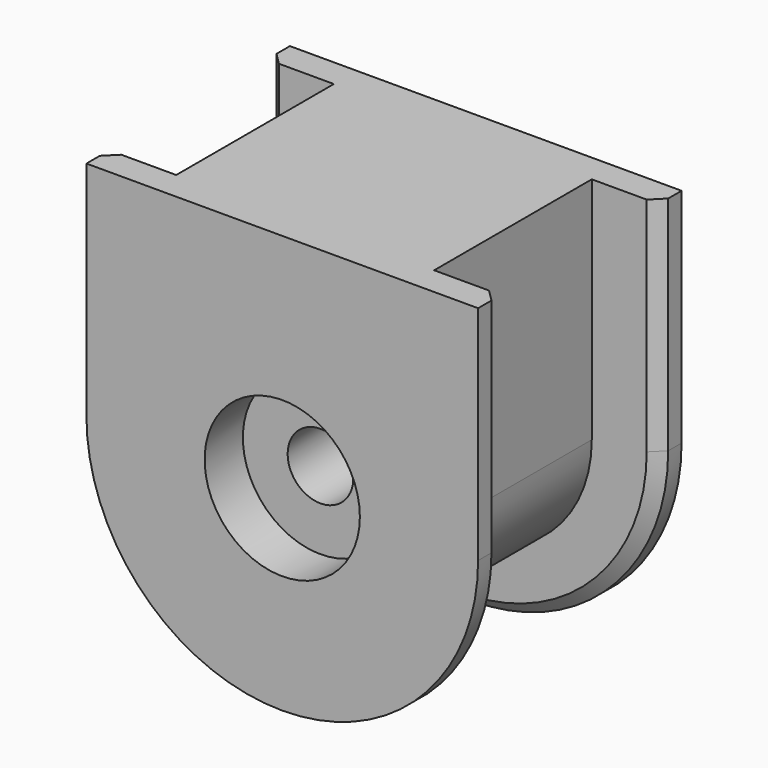
from build123d import *

# Parameters (mm, degrees)
F1_DEPTH  = 16.5
F3_DEPTH  = 2.4
F5_DEPTH  = 2.4
F6_R      = 2.75
F7_DEPTH  = 21.301
F8_SIZE   = 1
F9_R      = 6.5
F10_DEPTH = 4
F11_R     = 6.5
F12_DEPTH = 4


with BuildPart() as f1:
    # F0 (on Front) → F1 (new body)
    with BuildSketch(Plane.XZ):
        with BuildLine():
            Line((10.8, 4.99389), (-10.8, 4.99389))
            Line((-10.8, 4.99389), (-10.8, -14.20611))
            ThreePointArc((-10.8, -14.20611), (0, -25.00611), (10.8, -14.20611))
            Line((10.8, -14.20611), (10.8, 4.99389))
        make_face()
    extrude(amount=F1_DEPTH)

    # F2 (on face) → F3 (join)
    with BuildSketch(Plane.XZ.offset(16.5)):
        with BuildLine():
            Line((10.8, 4.99389), (10.8, -14.20611))
            ThreePointArc((10.8, -14.20611), (0, -25.00611), (-10.8, -14.20611))
            Line((-10.8, -14.20611), (-10.8, 4.99389))
            Line((-10.8, 4.99389), (-16.4, 4.99389))
            Line((-16.4, 4.99389), (-16.4, -13.60611))
            ThreePointArc((-16.4, -13.60611), (0, -30.00611), (16.4, -13.60611))
            Line((16.4, -13.60611), (16.4, 4.99389))
            Line((16.4, 4.99389), (10.8, 4.99389))
        make_face()
        with BuildLine():
            ThreePointArc((-10.8, -14.20611), (0, -25.00611), (10.8, -14.20611))
            Line((10.8, -14.20611), (10.8, 4.99389))
            Line((10.8, 4.99389), (-10.8, 4.99389))
            Line((-10.8, 4.99389), (-10.8, -14.20611))
        make_face()
    extrude(amount=F3_DEPTH)

    # F4 (on face) → F5 (join)
    with BuildSketch(Plane(origin=(0, 0, 0), x_dir=(-1, 0, 0), z_dir=(0, 1, 0))):
        with BuildLine():
            Line((16.4, 4.99389), (-16.4, 4.99389))
            Line((-16.4, 4.99389), (-16.4, -13.60611))
            ThreePointArc((-16.4, -13.60611), (0, -30.00611), (16.4, -13.60611))
            Line((16.4, -13.60611), (16.4, 4.99389))
        make_face()
    extrude(amount=F5_DEPTH)

    # F6 (on face) → F7 (cut, through all)
    with BuildSketch(Plane(origin=(0, 2.4, 0), x_dir=(-1, 0, 0), z_dir=(0, 1, 0))):
        with Locations((0, -13.60611)):
            Circle(F6_R)
    extrude(amount=-F7_DEPTH, mode=Mode.SUBTRACT)

    # F8
    f8_edges = [f1.edges().sort_by_distance(p)[0] for p in [
        (0, -16.5, -30.00611),
        (0, 0, -30.00611),
    ]]
    chamfer(f8_edges, length=F8_SIZE)

    # F9 (on face) → F10 (cut)
    with BuildSketch(Plane(origin=(0, 2.4, 0), x_dir=(-1, 0, 0), z_dir=(0, 1, 0))):
        with Locations((0, -13.60611)):
            Circle(F9_R)
    extrude(amount=-F10_DEPTH, mode=Mode.SUBTRACT)

    # F11 (on face) → F12 (cut)
    with BuildSketch(Plane.XZ.offset(18.9)):
        with Locations((0, -13.60611)):
            Circle(F11_R)
    extrude(amount=-F12_DEPTH, mode=Mode.SUBTRACT)


solid = f1.part
